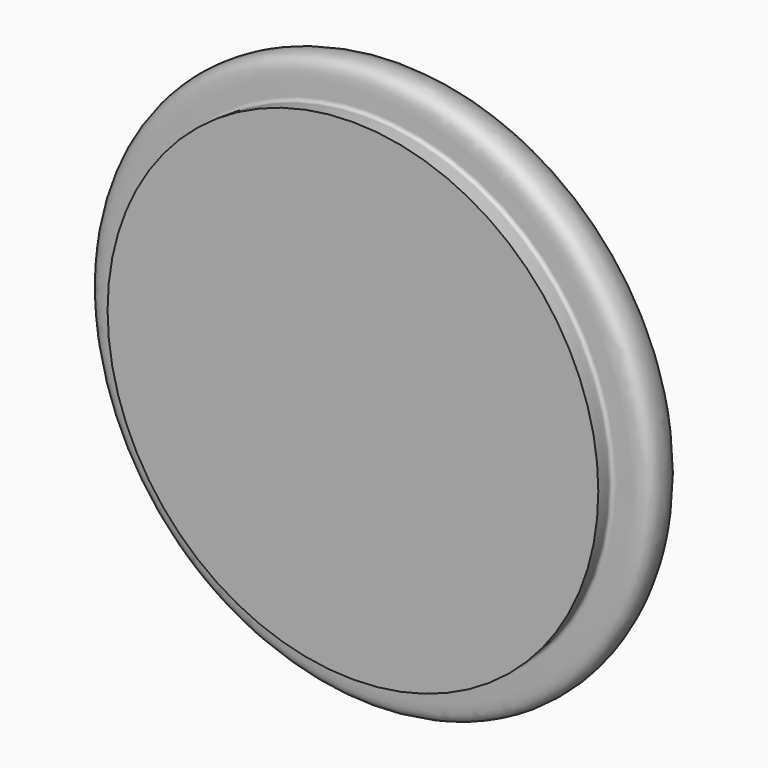
from build123d import *


with BuildPart() as f1:
    # F0 (on Top) → F1 (revolve)
    with BuildSketch(Plane.XY):
        with BuildLine():
            add(Edge.make_bspline(
                [(4.9164923839, 7.5951903127), (4.1355634165, 6.434574539), (3.8870180741, 5.725131382), (4.0936464623, 4.5557464422), (4.9164923839, 4.0203445772)],
                knots=[0, 0, 0, 0, 0.5276794955, 1, 1, 1, 1], degree=3))
            ThreePointArc((4.9164923839, 7.5951903127), (6.4760892633, 15.2350873806), (0, 19.5779709259))
            Line((0, 19.5779709259), (0, -13.0110968819))
            Line((0, -13.0110968819), (27.5, -13.0110968819))
            add(Edge.make_bspline(
                [(4.9164923839, 4.0203445772), (16.8821053033, 1.9600962245), (24.7825936116, -3.9467509918), (30.898386016, -5.2958406807), (32.3625410605, -11.5676640433), (26.4242758116, -10.1739151458), (27.4989227398, -11.7828437459), (27.5, -13.0110968819)],
                knots=[0, 0, 0, 0, 0.3846220068, 0.5666379386, 0.7287321673, 0.8811541254, 1, 1, 1, 1], degree=3))
        make_face()
    revolve(axis=Axis((0, -0.6963665294, 0), (0, -1, 0)))


solid = f1.part
